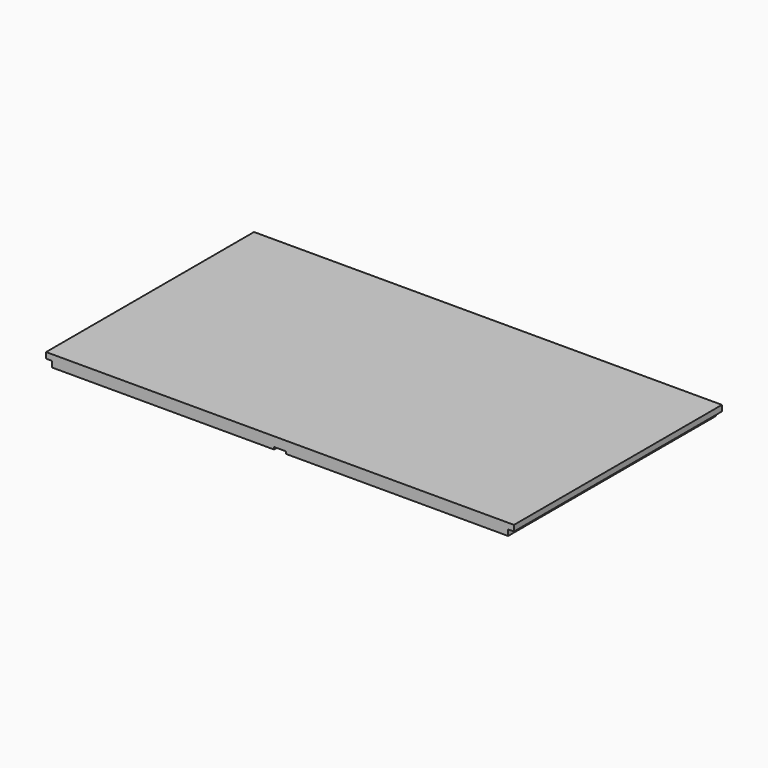
from build123d import *

# Parameters (mm, degrees)
SKETCH_W        = 720
SKETCH_H        = 400
PAD_DEPTH       = 18
SKETCH001_W     = 9
SKETCH001_H     = 400
POCKET_DEPTH    = 9
SKETCH002_W     = 18
SKETCH002_H     = 400
POCKET001_DEPTH = 3.5


with BuildPart() as part:
    # Sketch → Pad (new body)
    with BuildSketch(Plane.XY):
        with Locations((-360, 200)):
            Rectangle(SKETCH_W, SKETCH_H)
    extrude(amount=PAD_DEPTH)

    # Sketch001 → Pocket (cut)
    with BuildSketch(Plane.XY):
        with Locations((-4.5, 200)):
            Rectangle(SKETCH001_W, SKETCH001_H)
        with Locations((-715.5, 200)):
            Rectangle(SKETCH001_W, SKETCH001_H)
    extrude(amount=POCKET_DEPTH, mode=Mode.SUBTRACT)

    # Sketch002 (on Face4 of Pocket) → Pocket001 (cut)
    with BuildSketch(Plane(origin=(0, 0, 0), x_dir=(1, 0, 0), z_dir=(0, 0, -1))):
        with Locations((-360, -200)):
            Rectangle(SKETCH002_W, SKETCH002_H)
    extrude(amount=-POCKET001_DEPTH, mode=Mode.SUBTRACT)


solid = part.part
